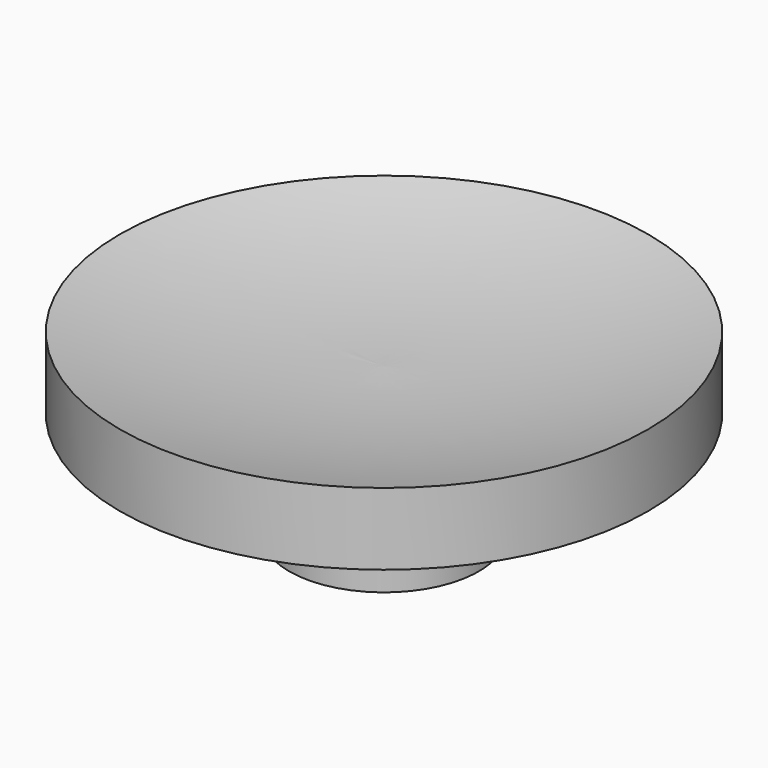
from build123d import *


with BuildPart() as f1:
    # F0 (on Front) → F1 (revolve)
    with BuildSketch(Plane.XZ):
        with BuildLine():
            Line((-3.95, 0), (0, 0))
            Line((0, 0), (0, 6.232284))
            ThreePointArc((0, 6.232284), (-5.544078, 6.483673), (-11, 7.5))
            Line((-11, 7.5), (-11, 4.5))
            Line((-11, 4.5), (-5.5, 4.5))
            Line((-5.5, 4.5), (-5.5, 3.5))
            Line((-5.5, 3.5), (-3.95, 3.5))
            Line((-3.95, 3.5), (-3.95, 0))
        make_face()
    revolve(axis=Axis((0, 0, 3.116142), (0, 0, 1)))


solid = f1.part
